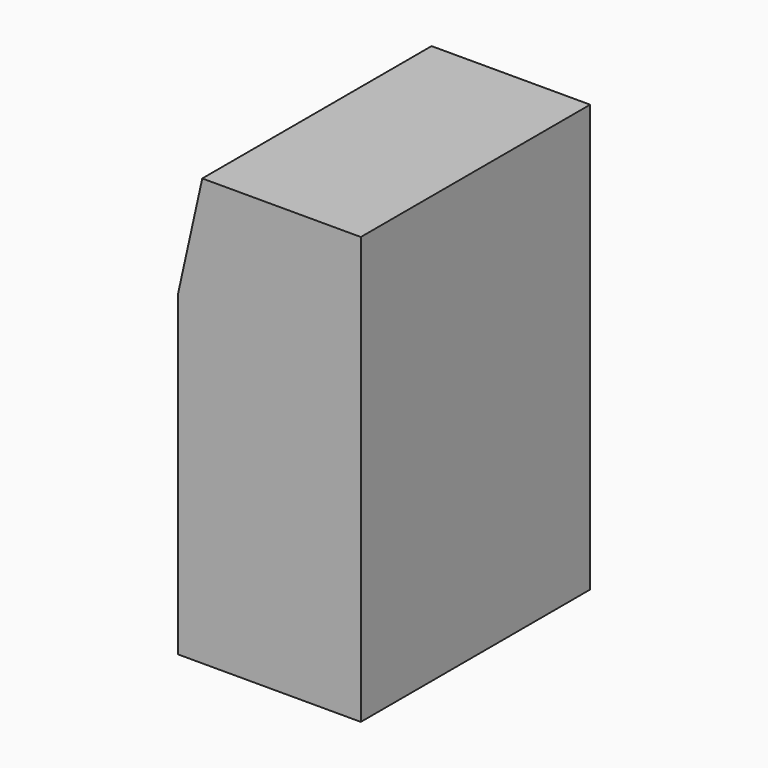
from build123d import *

# Parameters (mm, degrees)
F0_W     = 762
F0_H     = 1778
F1_DEPTH = 1193.8
F3_DEPTH = 1524
F4_W     = 25.4
F4_H     = 419.191256
F4_W_2   = 25.17225
F5_DEPTH = 127


with BuildPart() as f1:
    # F0 (on Front) → F1 (new body)
    with BuildSketch(Plane.XZ):
        Rectangle(F0_W, F0_H)
    extrude(amount=F1_DEPTH)

    # F2 (on face) → F3 (cut)
    with BuildSketch(Plane(origin=(0, 0, 0), x_dir=(-1, 0, 0), z_dir=(0, 1, 0))):
        Polygon((381, 889), (279.4, 889), (381, 430.121779), align=None)
    extrude(amount=-F3_DEPTH, mode=Mode.SUBTRACT)

    # F4 (on face) → F5 (cut)
    with BuildSketch(Plane(origin=(-453.978061, 0, 100.515058), x_dir=(0, -1, 0), z_dir=(-0.976355, 0, 0.216174))):
        with Locations((88.9, 572.58471)):
            Rectangle(F4_W, F4_H)
        with Locations((139.7, 572.58471)):
            Rectangle(F4_W, F4_H)
        with Locations((190.5, 572.58471)):
            Rectangle(F4_W, F4_H)
        with Locations((241.3, 572.58471)):
            Rectangle(F4_W, F4_H)
        with Locations((292.1, 572.58471)):
            Rectangle(F4_W, F4_H)
        with Locations((342.9, 572.58471)):
            Rectangle(F4_W, F4_H)
        with Locations((393.7, 572.58471)):
            Rectangle(F4_W, F4_H)
        with Locations((444.5, 572.58471)):
            Rectangle(F4_W, F4_H)
        with Locations((495.3, 572.58471)):
            Rectangle(F4_W, F4_H)
        with Locations((546.1, 572.58471)):
            Rectangle(F4_W, F4_H)
        with Locations((596.9, 572.58471)):
            Rectangle(F4_W, F4_H)
        with Locations((647.7, 572.58471)):
            Rectangle(F4_W, F4_H)
        with Locations((698.386125, 572.58471)):
            Rectangle(F4_W_2, F4_H)
        with Locations((749.07225, 572.58471)):
            Rectangle(F4_W, F4_H)
        with Locations((799.87225, 572.58471)):
            Rectangle(F4_W, F4_H)
        with Locations((850.67225, 572.58471)):
            Rectangle(F4_W, F4_H)
        with Locations((901.47225, 572.58471)):
            Rectangle(F4_W, F4_H)
        with Locations((952.27225, 572.58471)):
            Rectangle(F4_W, F4_H)
        with Locations((1017.819324, 572.58471)):
            Rectangle(F4_W, F4_H)
        with Locations((1068.619324, 572.58471)):
            Rectangle(F4_W, F4_H)
    extrude(amount=-F5_DEPTH, mode=Mode.SUBTRACT)


solid = f1.part
